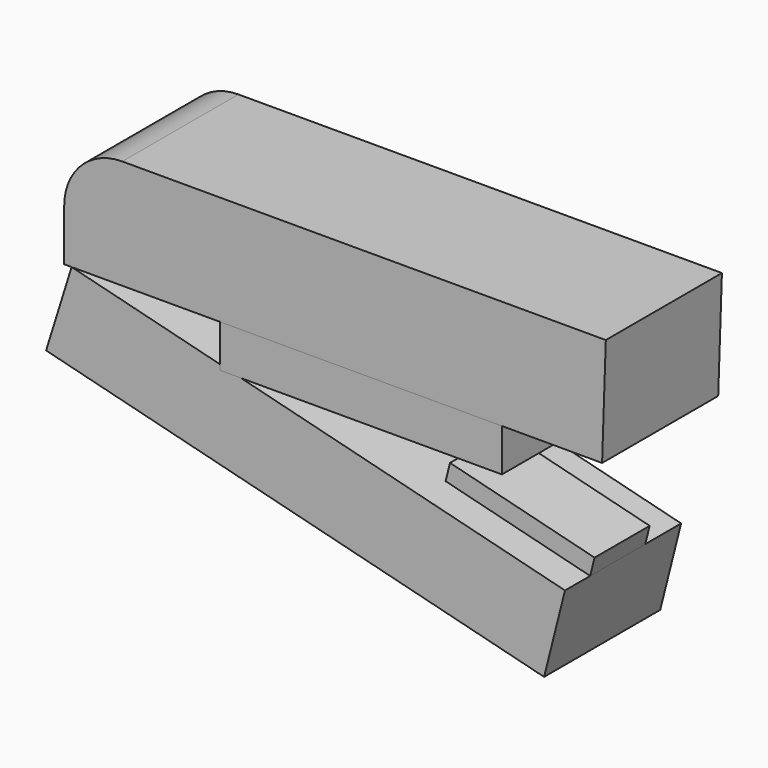
from build123d import *

# Parameters (mm, degrees)
F1_DEPTH = 12.7
F3_DEPTH = 12.7
F4_W     = 24.668398
F4_H     = 3.732718
F5_DEPTH = 12.7
F6_W     = 13.042734
F6_H     = 6.027006
F7_DEPTH = 1.58349
F8_R     = 5.08


with BuildPart() as f1:
    # F0 (on Front) → F1 (new body)
    with BuildSketch(Plane.XZ):
        Polygon((-33.107586, 0), (13.957119, 0), (14.281703, 9.575234), (-33.107586, 9.575234), align=None)
    extrude(amount=F1_DEPTH)

    # F8
    f8_edges = [f1.edges().sort_by_distance(p)[0] for p in [
        (-33.107586, -6.35, 9.575234),
    ]]
    fillet(f8_edges, radius=F8_R)


with BuildPart() as f3:
    # F2 (on Front) → F3 (new body)
    with BuildSketch(Plane.XZ):
        Polygon((10.711278, -10.873571), (-32.458417, 0), (-34.692648, -7.152828), (8.883818, -18.128857), align=None)
    extrude(amount=F3_DEPTH)

    # F6 (on face) → F7 (join)
    with BuildSketch(Plane(origin=(-1.936419, 0, -7.687873), x_dir=(0.969712, 0, -0.244251), z_dir=(0.244251, 0, 0.969712))):
        with Locations((6.521367, -6.934733)):
            Rectangle(F6_W, F6_H)
    extrude(amount=F7_DEPTH)


with BuildPart() as f5:
    # F4 (on Front) → F5 (new body)
    with BuildSketch(Plane.XZ):
        with Locations((-7.140851, -1.866359)):
            Rectangle(F4_W, F4_H)
    extrude(amount=F5_DEPTH)


solid = Compound([f1.part, f3.part, f5.part])
